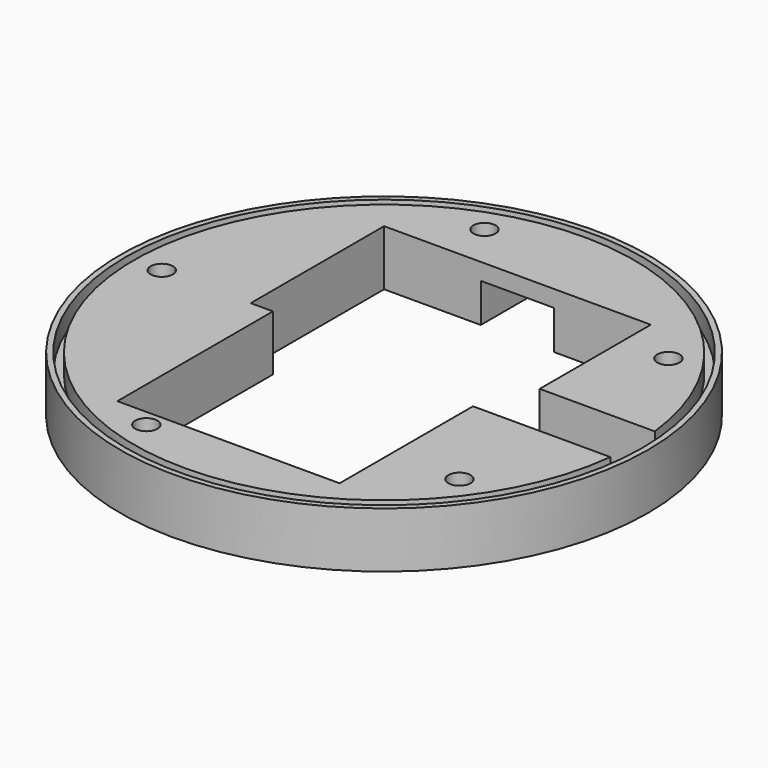
from build123d import *

# Parameters (mm, degrees)
SKETCH005_R     = 47.5
PAD002_DEPTH    = 10
SKETCH006_R     = 46.5
POCKET001_DEPTH = 3.5
SKETCH007_R     = 45
PAD003_DEPTH    = 3.5
POCKET003_DEPTH = 10
SKETCH011_W     = 25
SKETCH011_H     = 10
POCKET004_DEPTH = 10
SKETCH014_R     = 2
POCKET007_DEPTH = 10
SKETCH018_W     = 13.2
SKETCH018_H     = 7
POCKET011_DEPTH = 12.5
SKETCH019_W     = 6.5
SKETCH019_H     = 7
POCKET012_DEPTH = 5
SKETCH020_W     = 13.2
SKETCH020_H     = 2.5
PAD005_DEPTH    = 1


with BuildPart() as part:
    # Sketch005 → Pad002 (new body)
    with BuildSketch(Plane.XY):
        Circle(SKETCH005_R)
    extrude(amount=PAD002_DEPTH)

    # Sketch006 (on Face3 of Pad002) → Pocket001 (cut)
    with BuildSketch(Plane.XY.offset(10)):
        Circle(SKETCH006_R)
    extrude(amount=-POCKET001_DEPTH, mode=Mode.SUBTRACT)

    # Sketch007 (on Face5 of Pocket001) → Pad003 (join)
    with BuildSketch(Plane.XY.offset(6.5)):
        Circle(SKETCH007_R)
    extrude(amount=PAD003_DEPTH)

    # Sketch010 (on Face7 of Pad003) → Pocket003 (cut)
    with BuildSketch(Plane.XY.offset(10)):
        Polygon((20, 0), (20, -35), (-20, -35), (-20, 0), (-24, 0), (-24, 30), (24, 30), (24, 0), align=None)
    extrude(amount=-POCKET003_DEPTH, mode=Mode.SUBTRACT)

    # Sketch011 (on Face13 of Pocket003) → Pocket004 (cut)
    with BuildSketch(Plane.XY.offset(10)):
        with Locations((32.5, 0)):
            Rectangle(SKETCH011_W, SKETCH011_H)
    extrude(amount=-POCKET004_DEPTH, mode=Mode.SUBTRACT)

    # Sketch014 (on Face15 of Pocket004) → Pocket007 (cut)
    with BuildSketch(Plane.XY.offset(10)):
        with Locations((-40, 0)):
            Circle(SKETCH014_R)
        with Locations((-12.363995, 38.041183)):
            Circle(SKETCH014_R)
        with Locations((32.356581, 23.51705)):
            Circle(SKETCH014_R)
        with Locations((32.366826, -23.502949)):
            Circle(SKETCH014_R)
        with Locations((-12.347418, -38.046567)):
            Circle(SKETCH014_R)
    extrude(amount=-POCKET007_DEPTH, mode=Mode.SUBTRACT)

    # Sketch018 (on Face9 of Pocket007) → Pocket011 (cut)
    with BuildSketch(Plane.XZ.offset(-30)):
        with Locations((0, 3.5)):
            Rectangle(SKETCH018_W, SKETCH018_H)
    extrude(amount=-POCKET011_DEPTH, mode=Mode.SUBTRACT)

    # Sketch019 (on Face18 of Pocket011) → Pocket012 (cut)
    with BuildSketch(Plane.XZ.offset(-42.5)):
        with Locations((0, 3.5)):
            Rectangle(SKETCH019_W, SKETCH019_H)
    extrude(amount=-POCKET012_DEPTH, mode=Mode.SUBTRACT)

    # Sketch020 (on Face29 of Pocket012) → Pad005 (join)
    with BuildSketch(Plane(origin=(0, 0, 7), x_dir=(1, 0, 0), z_dir=(0, 0, -1))):
        with Locations((0, -34.25)):
            Rectangle(SKETCH020_W, SKETCH020_H)
    extrude(amount=PAD005_DEPTH)


with BuildPart() as part_1:
    # Body002 placement: moved
    add(part.part.moved(Location((0, 0, 5))))


solid = part_1.part
